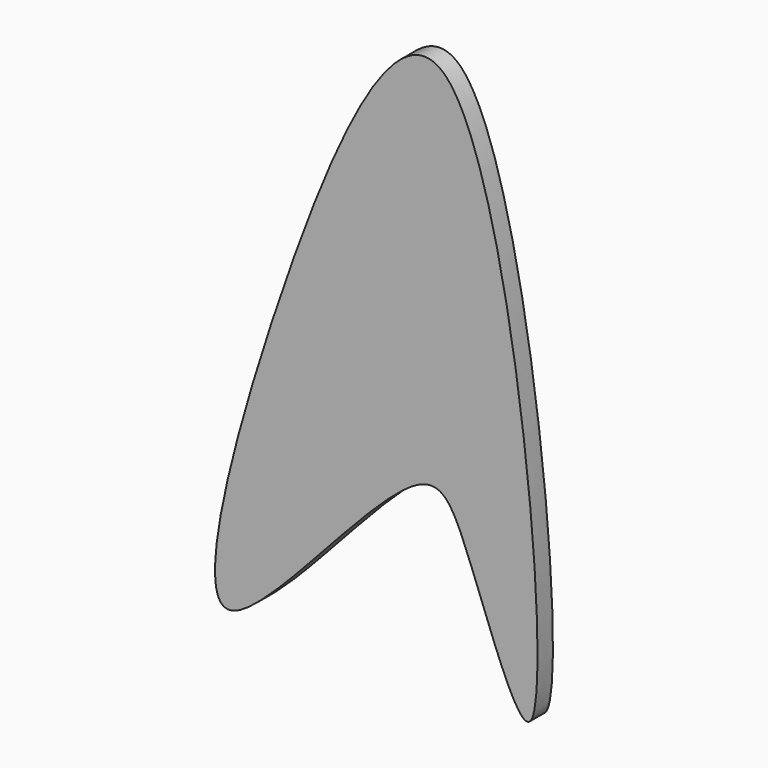
from build123d import *

# Parameters (mm, degrees)
F1_DEPTH = 2.54


with BuildPart() as f1:
    # F0 (on Front) → F1 (new body)
    with BuildSketch(Plane.XZ):
        with BuildLine():
            add(Edge.make_bspline(
                [(0, 0), (-5.2907723454, -0.9028670005), (5.0356545431, 39.9133105133), (33.351589743, 104.1220235117), (45.6146873915, -25.8825058932), (31.2176383921, 18.3120742468), (25.1095687619, 28.883938446), (4.8144082771, 0.8215757694), (0, 0)],
                knots=[0, 0, 0, 0, 0.1864902735, 0.3676835505, 0.6169321953, 0.7454913016, 0.8303007089, 1, 1, 1, 1], degree=3))
        make_face()
    extrude(amount=F1_DEPTH)


solid = f1.part
